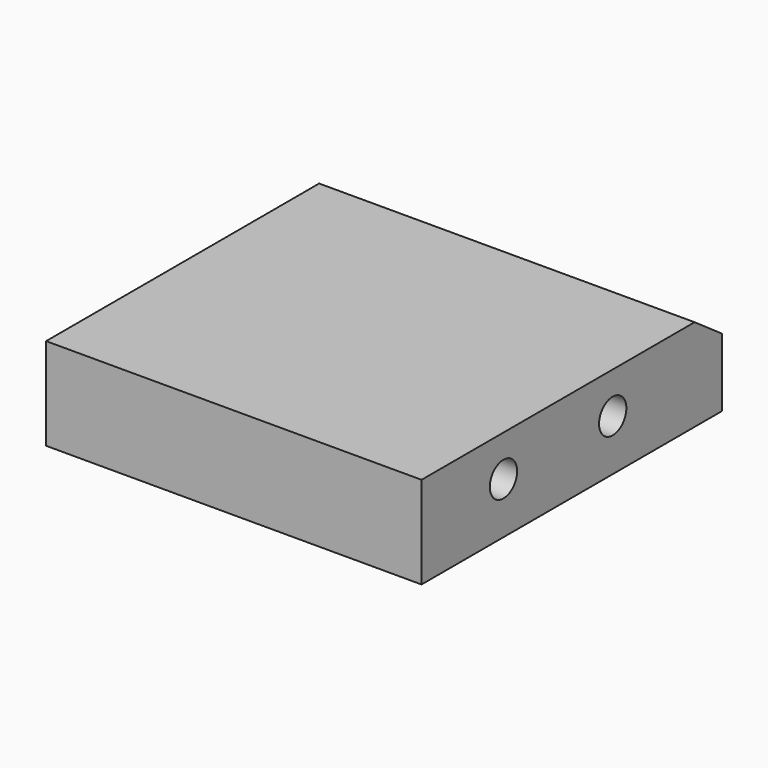
from build123d import *

# Parameters (mm, degrees)
F0_R     = 6.35
F1_DEPTH = 139.7


with BuildPart() as f1:
    # F0 (on Right) → F1 (new body)
    with BuildSketch(Plane.YZ):
        Polygon((98.033193, 6.35), (85.333193, 15.24), (-41.666807, 15.24), (-41.666807, -19.05), (98.033193, -19.05), align=None)
        with Locations((-3.566807, 0)):
            Circle(F0_R, mode=Mode.SUBTRACT)
        with Locations((47.233193, 0)):
            Circle(F0_R, mode=Mode.SUBTRACT)
    extrude(amount=F1_DEPTH)


solid = f1.part
